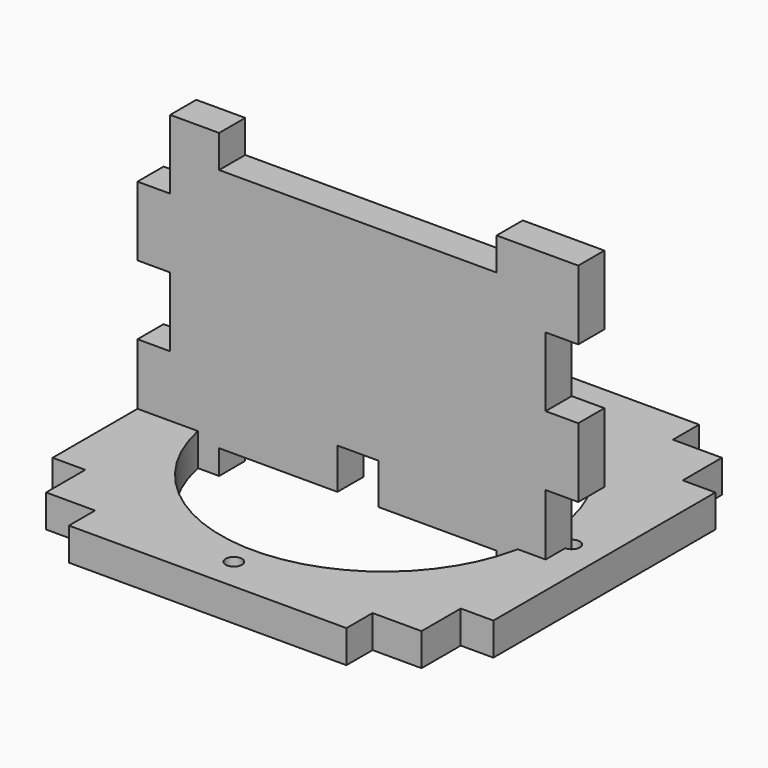
from build123d import *

# Parameters (mm, degrees)
SKETCH_R     = 20
SKETCH_R_2   = 1
PAD001_DEPTH = 4
PAD_DEPTH    = 4


with BuildPart() as cover:
    # Sketch → Pad001 (new body)
    with BuildSketch(Plane.XY):
        Polygon((-27, 17), (-27, -17), (-23, -17), (-23, -23), (-17, -23), (-17, -27), (17, -27), (17, -23), (23, -23), (23, -17), (27, -17), (27, 17), (23, 17), (23, 23), (17, 23), (17, 27), (-17, 27), (-17, 23), (-23, 23), (-23, 17), align=None)
        Circle(SKETCH_R, mode=Mode.SUBTRACT)
        with Locations((0, 23)):
            Circle(SKETCH_R_2, mode=Mode.SUBTRACT)
        with Locations((23, 0)):
            Circle(SKETCH_R_2, mode=Mode.SUBTRACT)
        with Locations((-23, 0)):
            Circle(SKETCH_R_2, mode=Mode.SUBTRACT)
        with Locations((0, -23)):
            Circle(SKETCH_R_2, mode=Mode.SUBTRACT)
    extrude(amount=PAD001_DEPTH)


with BuildPart() as walls:
    # Sketch001 → Pad (new body)
    with BuildSketch(Plane.XZ):
        Polygon((-23, 37), (-17, 37), (-17, 33), (17, 33), (17, 37), (27, 37), (27, 28.5), (23, 28.5), (23, 20), (27, 20), (27, 11.5), (23, 11.5), (23, 0), (17, 0), (17, 3), (2.5, 3), (2.5, 8), (-2.5, 8), (-2.5, 3), (-17, 3), (-17, 0), (-27, 0), (-27, 11.5), (-23, 11.5), (-23, 20), (-27, 20), (-27, 28.5), (-23, 28.5), align=None)
    extrude(amount=PAD_DEPTH)


solid = Compound([cover.part, walls.part])
